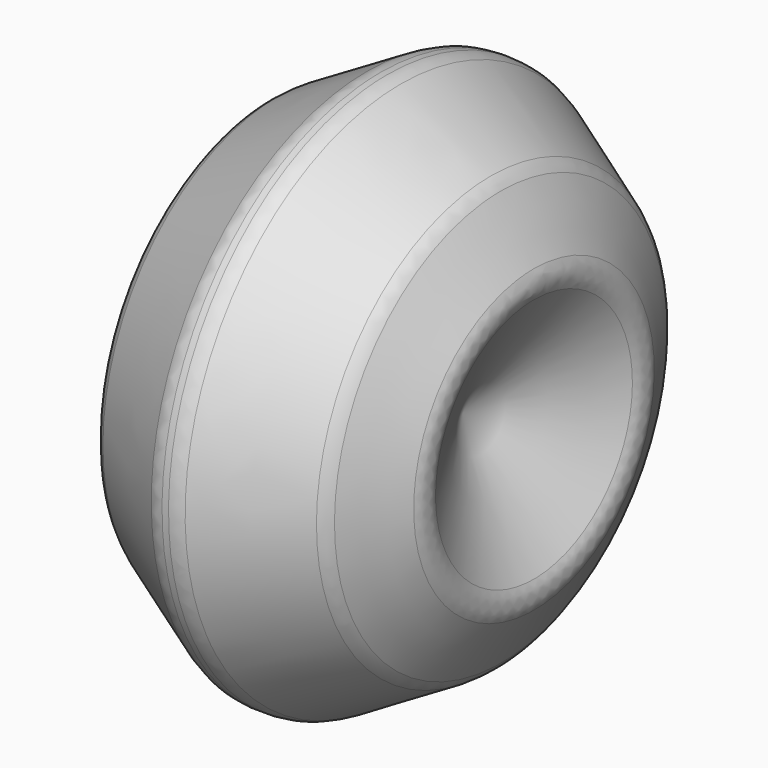
from build123d import *

# Parameters (mm, degrees)
F2_SIZE = 5
F3_R    = 2


with BuildPart() as f1:
    # F0 (on Front) → F1 (revolve)
    with BuildSketch(Plane.XZ):
        Polygon((5.7735026919, 0), (-5.7735026919, 0), (-11.5470053838, -10), (-5.7735026919, -20), (5.7735026919, -20), (11.5470053838, -10), align=None)
    revolve(axis=Axis((0, 0, -20), (-1, 0, 0)))

    # F2
    f2_edges = [f1.edges().sort_by_distance(p)[0] for p in [
        (5.773503, 0, -40),
        (-5.773503, 0, -40),
        (0, 0, 0),
    ]]
    chamfer(f2_edges, length=F2_SIZE)

    # F3
    f3_edges = [f1.edges().sort_by_distance(p)[0] for p in [
        (-11.547005, 0, -30),
        (-8.273503, 0, -35.669869),
        (-0.773503, 0, -39.999995),
        (0.773503, 0, -39.999995),
        (8.273503, 0, -35.669869),
        (11.547005, 0, -30),
        (8.660254, 0, -15),
    ]]
    fillet(f3_edges, radius=F3_R)


solid = f1.part
